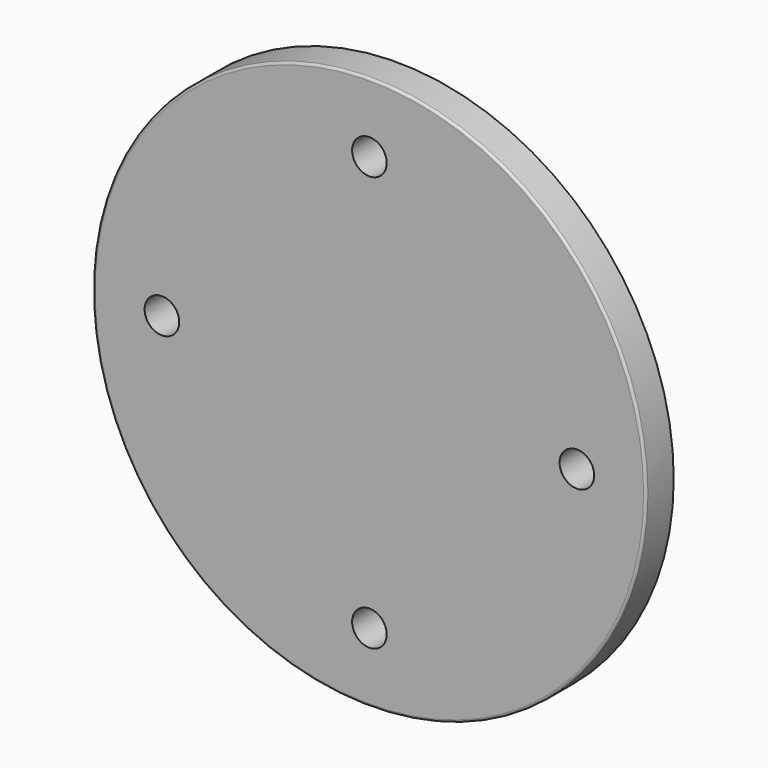
from build123d import *

# Parameters (mm, degrees)
F0_R     = 50.8
F0_R_2   = 3.175
F1_DEPTH = 6.35
F2_R     = 0.4445


with BuildPart() as f1:
    # F0 (on Front) → F1 (new body)
    with BuildSketch(Plane.XZ):
        Circle(F0_R)
        with Locations((0, -38.1)):
            Circle(F0_R_2, mode=Mode.SUBTRACT)
        with Locations((-38.1, 0)):
            Circle(F0_R_2, mode=Mode.SUBTRACT)
        with Locations((38.1, 0)):
            Circle(F0_R_2, mode=Mode.SUBTRACT)
        with Locations((0, 38.1)):
            Circle(F0_R_2, mode=Mode.SUBTRACT)
    extrude(amount=F1_DEPTH)

    # F2
    f2_edges = [f1.edges().sort_by_distance(p)[0] for p in [
        (-50.8, -6.35, 0),
    ]]
    fillet(f2_edges, radius=F2_R)


solid = f1.part
